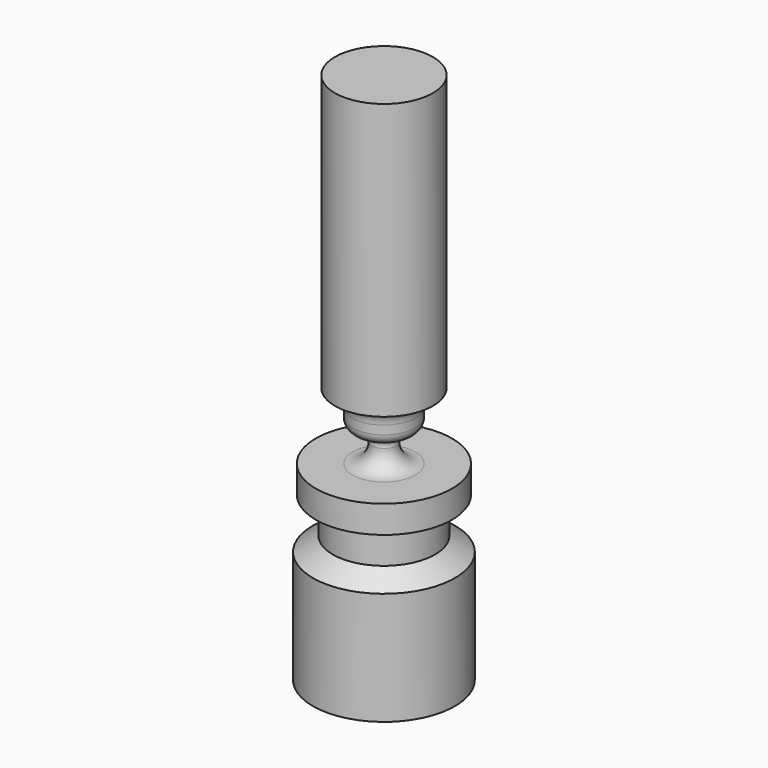
from build123d import *

# Parameters (mm, degrees)
F2_DEPTH = 104.11185
F3_DEPTH = 25.4


with BuildPart() as f1:
    # F0 (on Front) → F1 (revolve)
    with BuildSketch(Plane.XZ):
        with BuildLine():
            Line((0, -45.72), (0, 0))
            Line((0, 0), (0, 45.72))
            Line((0, 45.72), (-20.32, 45.72))
            Line((-20.32, 45.72), (-20.32, 35.56))
            ThreePointArc((-20.32, 35.56), (-15.1165623924, 33.8078630493), (-13.0358416779, 28.7268839961))
            Line((-13.0358416779, 28.7268839961), (-13.0358416779, 25.1708839961))
            ThreePointArc((-13.0358416779, 25.1708839961), (-11.6763486852, 21.8887775753), (-8.3942422643, 20.5292845826))
            ThreePointArc((-8.3942422643, 20.5292845826), (-5.5456340699, 19.1163985733), (-4.9467060106, 15.9935632109))
            ThreePointArc((-4.9467060106, 15.9935632109), (-7.3062957159, 10.2970097428), (-13.002849184, 7.9374200376))
            Line((-13.002849184, 7.9374200376), (-28.242849184, 7.9374200376))
            Line((-28.242849184, 7.9374200376), (-28.242849184, -3.4583220258))
            Line((-28.242849184, -3.4583220258), (-21.2328514445, -3.4583220258))
            Line((-21.2328514445, -3.4583220258), (-21.2328514445, -18.3975605232))
            Line((-21.2328514445, -18.3975605232), (-29.4625001389, -24.3229104143))
            Line((-29.4625001389, -24.3229104143), (-29.4625001389, -45.72))
            Line((-29.4625001389, -45.72), (0, -45.72))
        make_face()
    revolve(axis=Axis((0, 0, 22.86), (0, 0, 1)))

    # F2 (add): a face of the model
    f2_faces = [f1.faces().sort_by_distance(p)[0] for p in [
        (0, 0, 45.72),
    ]]
    extrude(f2_faces, amount=F2_DEPTH)

    # F3 (add): a face of the model
    f3_faces = [f1.faces().sort_by_distance(p)[0] for p in [
        (0, 0, -45.72),
    ]]
    extrude(f3_faces, amount=F3_DEPTH)


solid = f1.part
